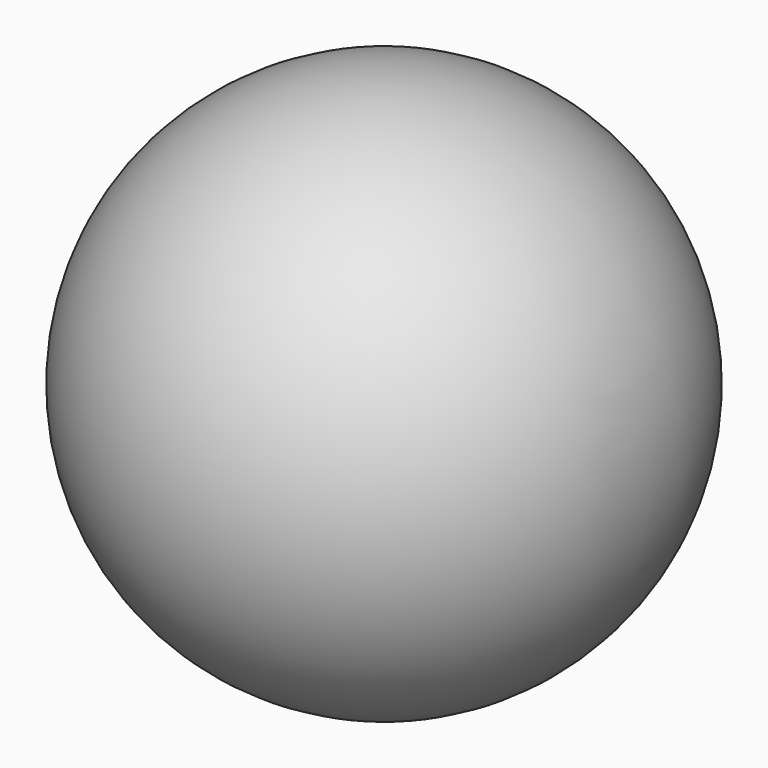
from build123d import *

# Parameters (mm, degrees)
BOX003_W                  = 10
BOX003_H                  = 10
BOX003_DEPTH              = 10
BOX002_W                  = 10
BOX002_H                  = 10
BOX002_DEPTH              = 10
ARRAY001_X_COUNT          = 3
ARRAY001_X_PITCH          = 20
ARRAY001_Y_COUNT          = 3
ARRAY001_Y_PITCH          = 20
BOX004_W                  = 10
BOX004_H                  = 10
BOX004_DEPTH              = 10
ARRAY002_X_COUNT          = 2
ARRAY002_X_PITCH          = 20
ARRAY002_Y_COUNT          = 2
ARRAY002_Y_PITCH          = 20
BOX001_W                  = 30
BOX001_H                  = 30
BOX001_DEPTH              = 10
BOX_W                     = 10
BOX_H                     = 10
BOX_DEPTH                 = 10
ARRAY_X_COUNT             = 4
ARRAY_X_PITCH             = 20
ARRAY_Y_COUNT             = 4
ARRAY_Y_PITCH             = 20
BOX005_W                  = 10
BOX005_H                  = 10
BOX005_DEPTH              = 10
BOX009_W                  = 10
BOX009_H                  = 10
BOX009_DEPTH              = 10
BOX008_W                  = 10
BOX008_H                  = 10
BOX008_DEPTH              = 10
ARRAY004_X_COUNT          = 3
ARRAY004_X_PITCH          = 20
ARRAY004_Y_COUNT          = 3
ARRAY004_Y_PITCH          = 20
BOX010_W                  = 10
BOX010_H                  = 10
BOX010_DEPTH              = 10
ARRAY005_X_COUNT          = 2
ARRAY005_X_PITCH          = 20
ARRAY005_Y_COUNT          = 2
ARRAY005_Y_PITCH          = 20
BOX007_W                  = 30
BOX007_H                  = 30
BOX007_DEPTH              = 10
BOX006_W                  = 10
BOX006_H                  = 10
BOX006_DEPTH              = 10
ARRAY003_X_COUNT          = 4
ARRAY003_X_PITCH          = 20
ARRAY003_Y_COUNT          = 4
ARRAY003_Y_PITCH          = 20
BOX011_W                  = 10
BOX011_H                  = 10
BOX011_DEPTH              = 10
FUSION001_ROLL_ANGLE      = 180
FUSION001_PLACEMENT_ANGLE = 90


with BuildPart() as cube003:
    # Box003 → Box003 (new body)
    with BuildSketch(Plane(origin=(30, 30, 10), x_dir=(1, 0, 0), z_dir=(0, 0, 1))):
        with Locations((5, 5)):
            Rectangle(BOX003_W, BOX003_H)
    extrude(amount=BOX003_DEPTH)


with BuildPart() as cut001:
    # Box002 → Box002 (new body)
    with BuildSketch(Plane.XY):
        with Locations((5, 5)):
            Rectangle(BOX002_W, BOX002_H)
    extrude(amount=BOX002_DEPTH)

    # Array001 X: Cut001 ×3


with BuildPart() as cut001_1:
    add(cut001.part)
    with Locations(*[(i * ARRAY001_X_PITCH, 0, 0) for i in range(1, ARRAY001_X_COUNT)]):
        add(cut001.part)

    # Array001 Y: Cut001 ×3


with BuildPart() as cut001_2:
    add(cut001_1.part)
    with Locations(*[(0, i * ARRAY001_Y_PITCH, 0) for i in range(1, ARRAY001_Y_COUNT)]):
        add(cut001_1.part)


with BuildPart() as cut001_3:
    # Array001 placement: moved
    add(cut001_2.part.moved(Location((10, 10, 10))))

    # Cut001: cut Cube003
    add(cube003.part, mode=Mode.SUBTRACT)


with BuildPart() as array002:
    # Box004 → Box004 (new body)
    with BuildSketch(Plane.XY):
        with Locations((5, 5)):
            Rectangle(BOX004_W, BOX004_H)
    extrude(amount=BOX004_DEPTH)

    # Array002 X: Array002 ×2


with BuildPart() as array002_1:
    add(array002.part)
    with Locations(*[(i * ARRAY002_X_PITCH, 0, 0) for i in range(1, ARRAY002_X_COUNT)]):
        add(array002.part)

    # Array002 Y: Array002 ×2


with BuildPart() as array002_2:
    add(array002_1.part)
    with Locations(*[(0, i * ARRAY002_Y_PITCH, 0) for i in range(1, ARRAY002_Y_COUNT)]):
        add(array002_1.part)


with BuildPart() as array002_3:
    # Array002 placement: moved
    add(array002_2.part.moved(Location((20, 20, 20))))


with BuildPart() as cube001:
    # Box001 → Box001 (new body)
    with BuildSketch(Plane(origin=(20, 20, 0), x_dir=(1, 0, 0), z_dir=(0, 0, 1))):
        with Locations((15, 15)):
            Rectangle(BOX001_W, BOX001_H)
    extrude(amount=BOX001_DEPTH)


with BuildPart() as cut:
    # Box → Box (new body)
    with BuildSketch(Plane.XY):
        with Locations((5, 5)):
            Rectangle(BOX_W, BOX_H)
    extrude(amount=BOX_DEPTH)

    # Array X: Cut ×4


with BuildPart() as cut_1:
    add(cut.part)
    with Locations(*[(i * ARRAY_X_PITCH, 0, 0) for i in range(1, ARRAY_X_COUNT)]):
        add(cut.part)

    # Array Y: Cut ×4


with BuildPart() as cut_2:
    add(cut_1.part)
    with Locations(*[(0, i * ARRAY_Y_PITCH, 0) for i in range(1, ARRAY_Y_COUNT)]):
        add(cut_1.part)

    # Cut: cut Cube001
    add(cube001.part, mode=Mode.SUBTRACT)


with BuildPart() as obj1:
    # Box005 → Box005 (new body)
    with BuildSketch(Plane(origin=(30, 30, 30), x_dir=(1, 0, 0), z_dir=(0, 0, 1))):
        with Locations((5, 5)):
            Rectangle(BOX005_W, BOX005_H)
    extrude(amount=BOX005_DEPTH)

    # Fusion: union Cut001, Array002, Cut
    add(cut001_3.part)
    add(array002_3.part)
    add(cut_2.part)


with BuildPart() as cube009:
    # Box009 → Box009 (new body)
    with BuildSketch(Plane(origin=(30, 30, 10), x_dir=(1, 0, 0), z_dir=(0, 0, 1))):
        with Locations((5, 5)):
            Rectangle(BOX009_W, BOX009_H)
    extrude(amount=BOX009_DEPTH)


with BuildPart() as cut003:
    # Box008 → Box008 (new body)
    with BuildSketch(Plane.XY):
        with Locations((5, 5)):
            Rectangle(BOX008_W, BOX008_H)
    extrude(amount=BOX008_DEPTH)

    # Array004 X: Cut003 ×3


with BuildPart() as cut003_1:
    add(cut003.part)
    with Locations(*[(i * ARRAY004_X_PITCH, 0, 0) for i in range(1, ARRAY004_X_COUNT)]):
        add(cut003.part)

    # Array004 Y: Cut003 ×3


with BuildPart() as cut003_2:
    add(cut003_1.part)
    with Locations(*[(0, i * ARRAY004_Y_PITCH, 0) for i in range(1, ARRAY004_Y_COUNT)]):
        add(cut003_1.part)


with BuildPart() as cut003_3:
    # Array004 placement: moved
    add(cut003_2.part.moved(Location((10, 10, 10))))

    # Cut003: cut Cube009
    add(cube009.part, mode=Mode.SUBTRACT)


with BuildPart() as array005:
    # Box010 → Box010 (new body)
    with BuildSketch(Plane.XY):
        with Locations((5, 5)):
            Rectangle(BOX010_W, BOX010_H)
    extrude(amount=BOX010_DEPTH)

    # Array005 X: Array005 ×2


with BuildPart() as array005_1:
    add(array005.part)
    with Locations(*[(i * ARRAY005_X_PITCH, 0, 0) for i in range(1, ARRAY005_X_COUNT)]):
        add(array005.part)

    # Array005 Y: Array005 ×2


with BuildPart() as array005_2:
    add(array005_1.part)
    with Locations(*[(0, i * ARRAY005_Y_PITCH, 0) for i in range(1, ARRAY005_Y_COUNT)]):
        add(array005_1.part)


with BuildPart() as array005_3:
    # Array005 placement: moved
    add(array005_2.part.moved(Location((20, 20, 20))))


with BuildPart() as cube007:
    # Box007 → Box007 (new body)
    with BuildSketch(Plane(origin=(20, 20, 0), x_dir=(1, 0, 0), z_dir=(0, 0, 1))):
        with Locations((15, 15)):
            Rectangle(BOX007_W, BOX007_H)
    extrude(amount=BOX007_DEPTH)


with BuildPart() as cut002:
    # Box006 → Box006 (new body)
    with BuildSketch(Plane.XY):
        with Locations((5, 5)):
            Rectangle(BOX006_W, BOX006_H)
    extrude(amount=BOX006_DEPTH)

    # Array003 X: Cut002 ×4


with BuildPart() as cut002_1:
    add(cut002.part)
    with Locations(*[(i * ARRAY003_X_PITCH, 0, 0) for i in range(1, ARRAY003_X_COUNT)]):
        add(cut002.part)

    # Array003 Y: Cut002 ×4


with BuildPart() as cut002_2:
    add(cut002_1.part)
    with Locations(*[(0, i * ARRAY003_Y_PITCH, 0) for i in range(1, ARRAY003_Y_COUNT)]):
        add(cut002_1.part)

    # Cut002: cut Cube007
    add(cube007.part, mode=Mode.SUBTRACT)


with BuildPart() as obj2:
    # Box011 → Box011 (new body)
    with BuildSketch(Plane(origin=(30, 30, 30), x_dir=(1, 0, 0), z_dir=(0, 0, 1))):
        with Locations((5, 5)):
            Rectangle(BOX011_W, BOX011_H)
    extrude(amount=BOX011_DEPTH)

    # Fusion001: union Cut003, Array005, Cut002
    add(cut003_3.part)
    add(array005_3.part)
    add(cut002_2.part)


with BuildPart() as obj2_1:
    # Fusion001 roll: moved
    add(obj2.part.rotate(Axis((0, 0, 0), (1, 0, 0)), FUSION001_ROLL_ANGLE))


with BuildPart() as obj2_2:
    # Fusion001 placement: moved
    add(obj2_1.part.rotate(Axis((0, 0, 0), (0, 0, 1)), FUSION001_PLACEMENT_ANGLE))


with BuildPart() as obj3:
    # Sphere → Sphere (revolve)
    with BuildSketch(Plane(origin=(35, 35, 0), x_dir=(1, 0, 0), z_dir=(0, -1, 0))):
        with BuildLine():
            ThreePointArc((0, -60), (60, 0), (0, 60))
            Line((0, 60), (0, -60))
        make_face()
    revolve(axis=Axis((35, 35, 0), (0, 0, 1)))


solid = Compound([obj1.part, obj2_2.part, obj3.part])
